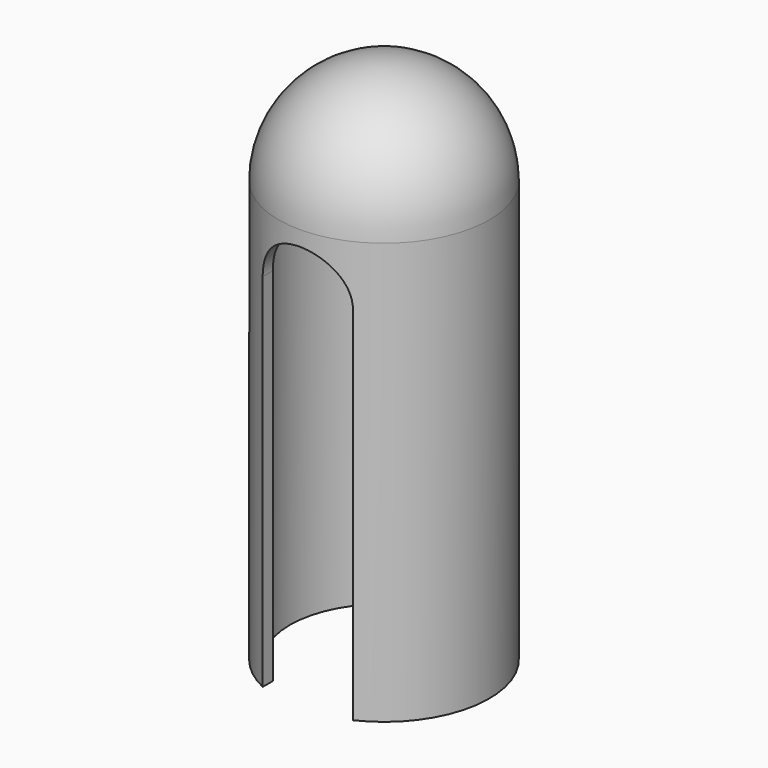
from build123d import *

# Parameters (mm, degrees)
F0_W     = 1.5
F0_H     = 56
F3_DEPTH = 25


with BuildPart() as f1:
    # F0 (on Front) → F1 (revolve)
    with BuildSketch(Plane.XZ):
        with BuildLine():
            ThreePointArc((-12.5, 56), (-8.8388347648, 64.8388347648), (0, 68.5))
            Line((0, 68.5), (0, 70))
            ThreePointArc((0, 70), (-9.8994949366, 65.8994949366), (-14, 56))
            Line((-14, 56), (-12.5, 56))
        make_face()
        with Locations((-13.25, 28)):
            Rectangle(F0_W, F0_H)
    revolve(axis=Axis((0, 0, 28), (0, 0, -1)))

    # F2 (on Front) → F3 (cut)
    with BuildSketch(Plane.XZ):
        with BuildLine():
            Line((6, -2.9855446036), (6, 48))
            ThreePointArc((6, 48), (0, 54), (-6, 48))
            Line((-6, 48), (-6, -2.9855446036))
            Line((-6, -2.9855446036), (6, -2.9855446036))
        make_face()
    extrude(amount=F3_DEPTH, mode=Mode.SUBTRACT)


solid = f1.part
